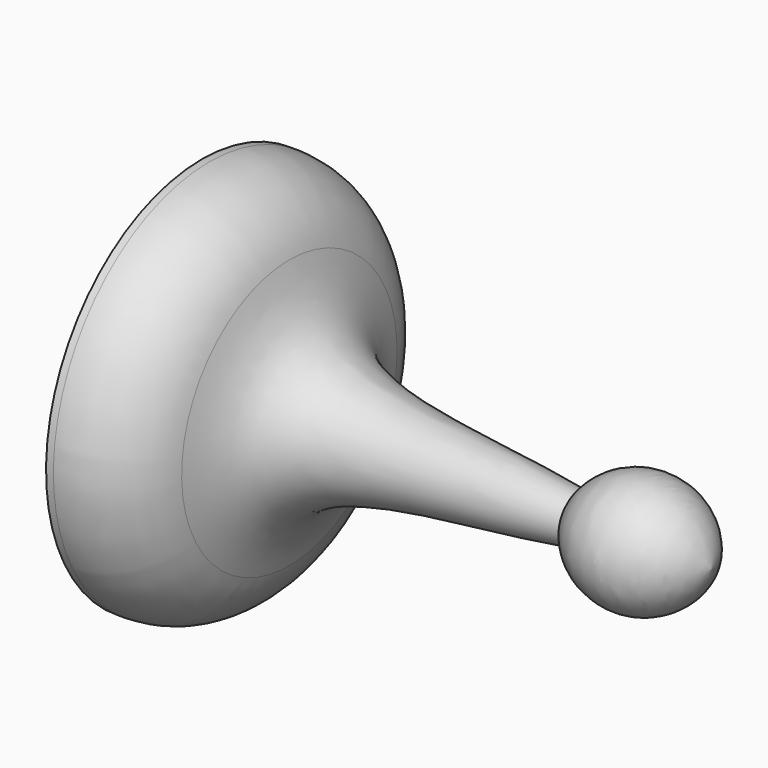
from build123d import *


with BuildPart() as f1:
    # F0 (on Front) → F1 (revolve)
    with BuildSketch(Plane.XZ):
        with BuildLine():
            Line((0.4815238975, 12.7), (0, 12.7))
            Line((0, 12.7), (0, 0))
            Line((0, 0), (33.229046231, 0))
            ThreePointArc((33.229046231, 0), (29.3876461887, 3.7420906274), (24.509088866, 1.5151476562))
            add(Edge.make_bspline(
                [(5.7048812333, 8.7790943943), (6.0631130567, 7.5470682013), (7.8662608937, 2.2900161346), (17.2664207545, 2.6125218728), (24.509088866, 1.5151476562)],
                knots=[0.2198850643, 0.2198850643, 0.2198850643, 0.2198850643, 0.4025703993, 1, 1, 1, 1], degree=3))
            ThreePointArc((5.7048812333, 8.7790943943), (3.7471387947, 11.610708848), (0.4815238975, 12.7))
        make_face()
    revolve(axis=Axis((16.6145231155, 0, 0), (1, 0, 0)))


solid = f1.part
